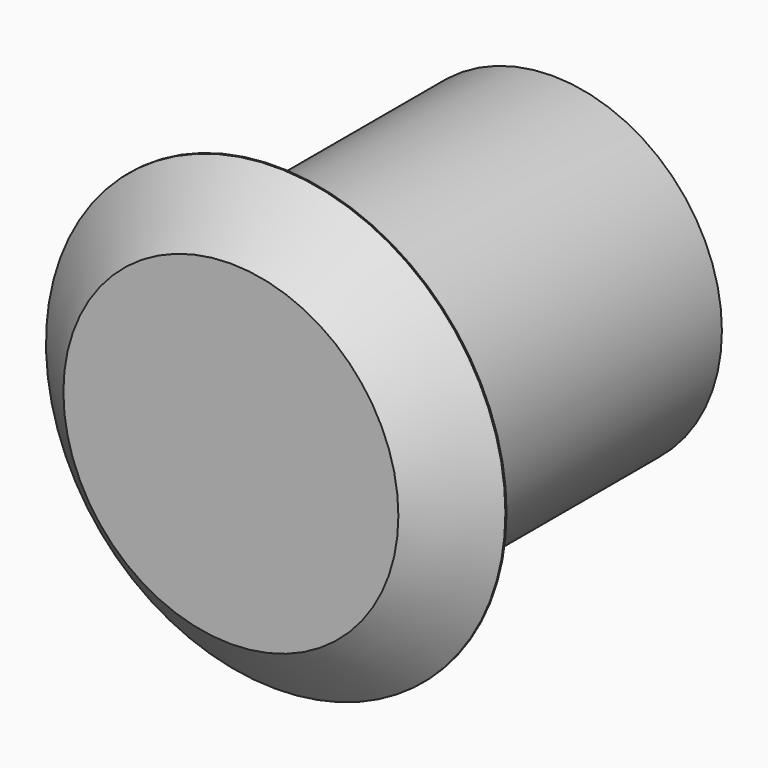
from build123d import *

# Parameters (mm, degrees)
F0_R     = 50.8
F1_DEPTH = 12.7
F4_DEPTH = 25.4
F5_R     = 37.465
F5_R_2   = 31.75
F6_DEPTH = 76.2
F8_ANGLE = 15.83


with BuildPart() as f1:
    # F0 (on Front) → F1 (new body)
    with BuildSketch(Plane.XZ):
        Circle(F0_R)
    extrude(amount=F1_DEPTH)

    # F2 (on Right) → F3 (revolve, cut)
    with BuildSketch(Plane.YZ):
        Polygon((-12.895335, -50.86495), (0, -51.151514), (-12.895335, -36.823358), align=None)
    revolve(axis=Axis((0, 0, 0), (0, 1, 0)), mode=Mode.SUBTRACT)

    # F2 (on Right) → F4 (cut)
    with BuildSketch(Plane.YZ):
        Polygon((-12.895335, -50.86495), (0, -51.151514), (-12.895335, -36.823358), align=None)
    extrude(amount=-F4_DEPTH, mode=Mode.SUBTRACT)

    # F5 (on Front) → F6 (join)
    with BuildSketch(Plane.XZ):
        Circle(F5_R)
        Circle(F5_R_2, mode=Mode.SUBTRACT)
    extrude(amount=-F6_DEPTH)

    # F7 (on Top) → F8 (revolve)
    with BuildSketch(Plane.XY):
        Polygon((-37.465, -0.075845), (-37.465, 18.974155), (-44.45, 14.211659), (-44.45, 4.686659), align=None)
        Polygon((-37.465, 18.974155), (-37.465, 38.024155), (-44.45, 33.261659), (-44.45, 23.736659), align=None)
        Polygon((-37.465, 38.024155), (-37.465, 57.074155), (-44.45, 52.311659), (-44.45, 42.786659), align=None)
        Polygon((-37.465, 57.074155), (-37.465, 76.124155), (-44.45, 71.361659), (-44.45, 61.836659), align=None)
    revolve(axis=Axis((0, 76.2, 0), (0, -1, 0)), revolution_arc=F8_ANGLE)


solid = f1.part
